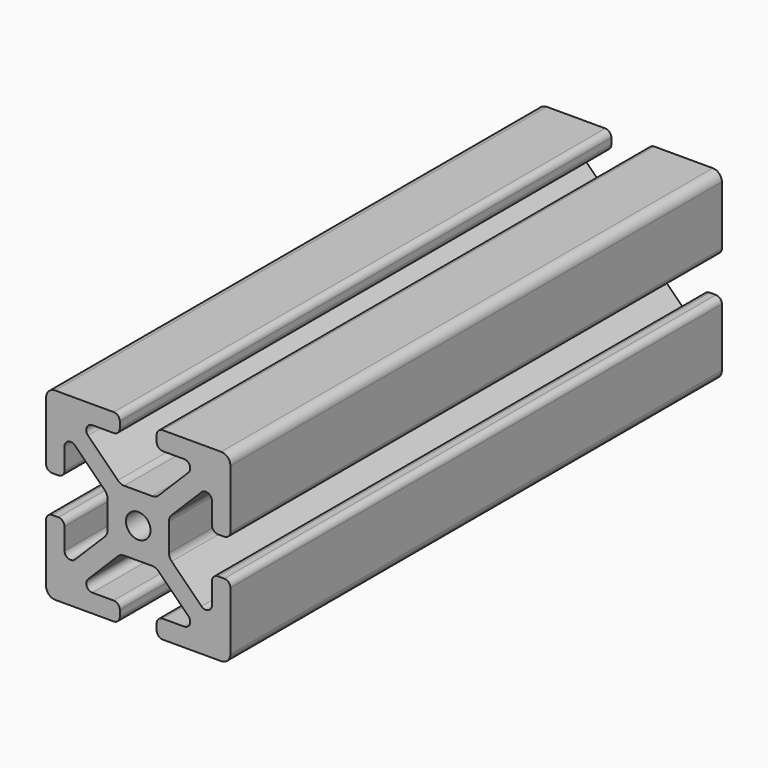
from build123d import *

# Parameters (mm, degrees)
F0_R     = 2
F1_DEPTH = 100


with BuildPart() as f1:
    # F0 (on Front) → F1 (new body)
    with BuildSketch(Plane.XZ):
        with BuildLine():
            ThreePointArc((15, 13.5), (14.56066, 14.56066), (13.5, 15))
            Line((13.5, 15), (4, 15))
            ThreePointArc((4, 15), (3.292893, 14.707107), (3, 14))
            Line((3, 14), (3, 13))
            ThreePointArc((3, 13), (3.292893, 12.292893), (4, 12))
            Line((4, 12), (7.464466, 12))
            ThreePointArc((7.464466, 12), (8.388346, 11.382683), (8.171573, 10.292893))
            Line((8.171573, 10.292893), (3.318019, 5.43934))
            ThreePointArc((3.318019, 5.43934), (2.831384, 5.114181), (2.257359, 5))
            Line((2.257359, 5), (-2.257359, 5))
            ThreePointArc((-2.257359, 5), (-2.831384, 5.114181), (-3.318019, 5.43934))
            Line((-3.318019, 5.43934), (-8.171573, 10.292893))
            ThreePointArc((-8.171573, 10.292893), (-8.388346, 11.382683), (-7.464466, 12))
            Line((-7.464466, 12), (-4, 12))
            ThreePointArc((-4, 12), (-3.292893, 12.292893), (-3, 13))
            Line((-3, 13), (-3, 14))
            ThreePointArc((-3, 14), (-3.292893, 14.707107), (-4, 15))
            Line((-4, 15), (-13.5, 15))
            ThreePointArc((-13.5, 15), (-14.56066, 14.56066), (-15, 13.5))
            Line((-15, 13.5), (-15, 4))
            ThreePointArc((-15, 4), (-14.707107, 3.292893), (-14, 3))
            Line((-14, 3), (-13, 3))
            ThreePointArc((-13, 3), (-12.292893, 3.292893), (-12, 4))
            Line((-12, 4), (-12, 7.464466))
            ThreePointArc((-12, 7.464466), (-11.382683, 8.388346), (-10.292893, 8.171573))
            Line((-10.292893, 8.171573), (-5.43934, 3.318019))
            ThreePointArc((-5.43934, 3.318019), (-5.114181, 2.831384), (-5, 2.257359))
            Line((-5, 2.257359), (-5, -2.257359))
            ThreePointArc((-5, -2.257359), (-5.114181, -2.831384), (-5.43934, -3.318019))
            Line((-5.43934, -3.318019), (-10.292893, -8.171573))
            ThreePointArc((-10.292893, -8.171573), (-11.382683, -8.388346), (-12, -7.464466))
            Line((-12, -7.464466), (-12, -4))
            ThreePointArc((-12, -4), (-12.292893, -3.292893), (-13, -3))
            Line((-13, -3), (-14, -3))
            ThreePointArc((-14, -3), (-14.707107, -3.292893), (-15, -4))
            Line((-15, -4), (-15, -13.5))
            ThreePointArc((-15, -13.5), (-14.56066, -14.56066), (-13.5, -15))
            Line((-13.5, -15), (-4, -15))
            ThreePointArc((-4, -15), (-3.292893, -14.707107), (-3, -14))
            Line((-3, -14), (-3, -13))
            ThreePointArc((-3, -13), (-3.292893, -12.292893), (-4, -12))
            Line((-4, -12), (-7.464466, -12))
            ThreePointArc((-7.464466, -12), (-8.388346, -11.382683), (-8.171573, -10.292893))
            Line((-8.171573, -10.292893), (-3.318019, -5.43934))
            ThreePointArc((-3.318019, -5.43934), (-2.831384, -5.114181), (-2.257359, -5))
            Line((-2.257359, -5), (2.257359, -5))
            ThreePointArc((2.257359, -5), (2.831384, -5.114181), (3.318019, -5.43934))
            Line((3.318019, -5.43934), (8.171573, -10.292893))
            ThreePointArc((8.171573, -10.292893), (8.388346, -11.382683), (7.464466, -12))
            Line((7.464466, -12), (4, -12))
            ThreePointArc((4, -12), (3.292893, -12.292893), (3, -13))
            Line((3, -13), (3, -14))
            ThreePointArc((3, -14), (3.292893, -14.707107), (4, -15))
            Line((4, -15), (13.5, -15))
            ThreePointArc((13.5, -15), (14.56066, -14.56066), (15, -13.5))
            Line((15, -13.5), (15, -4))
            ThreePointArc((15, -4), (14.707107, -3.292893), (14, -3))
            Line((14, -3), (13, -3))
            ThreePointArc((13, -3), (12.292893, -3.292893), (12, -4))
            Line((12, -4), (12, -7.464466))
            ThreePointArc((12, -7.464466), (11.382683, -8.388346), (10.292893, -8.171573))
            Line((10.292893, -8.171573), (5.43934, -3.318019))
            ThreePointArc((5.43934, -3.318019), (5.114181, -2.831384), (5, -2.257359))
            Line((5, -2.257359), (5, 2.257359))
            ThreePointArc((5, 2.257359), (5.114181, 2.831384), (5.43934, 3.318019))
            Line((5.43934, 3.318019), (10.292893, 8.171573))
            ThreePointArc((10.292893, 8.171573), (11.382683, 8.388346), (12, 7.464466))
            Line((12, 7.464466), (12, 4))
            ThreePointArc((12, 4), (12.292893, 3.292893), (13, 3))
            Line((13, 3), (14, 3))
            ThreePointArc((14, 3), (14.707107, 3.292893), (15, 4))
            Line((15, 4), (15, 13.5))
        make_face()
        Circle(F0_R, mode=Mode.SUBTRACT)
    extrude(amount=-F1_DEPTH)


solid = f1.part
